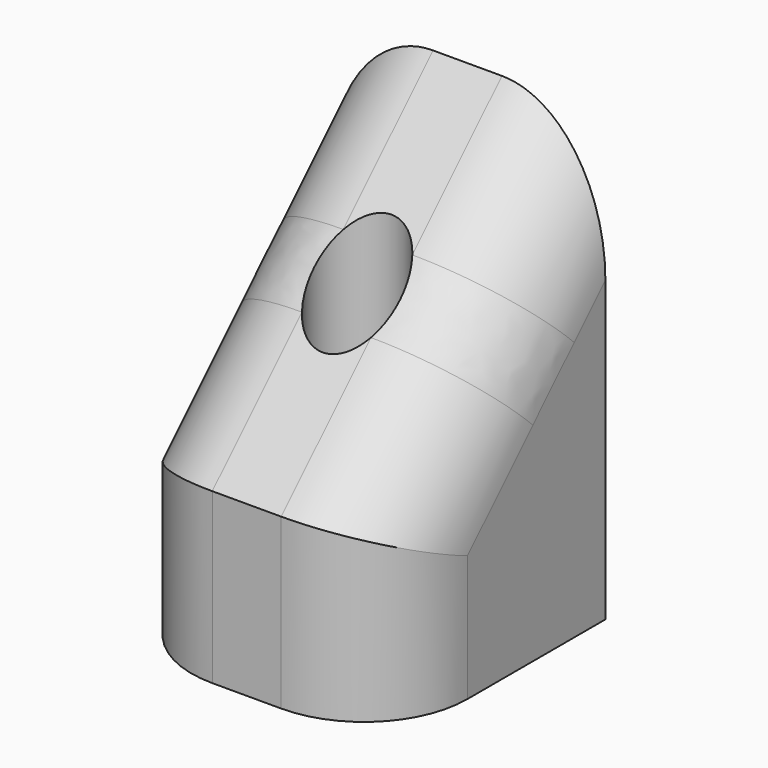
from build123d import *

# Parameters (mm, degrees)
PAD027_DEPTH    = 4
SKETCH057_R     = 1.25
POCKET019_DEPTH = 12.901
FILLET_R        = 3


with BuildPart() as part:
    # Sketch055 → Pad027 (new body, symmetric)
    with BuildSketch(Plane.YZ.offset(-96)):
        Polygon((101, 27.1), (93, 27.1), (93, 32), (101, 40), align=None)
    extrude(amount=PAD027_DEPTH, both=True)

    # Sketch057 (on Face1 of Pad027) → Pocket019 (cut, through all)
    with BuildSketch(Plane.YX.offset(-27.1)):
        with Locations((97, -96)):
            Circle(SKETCH057_R)
    extrude(amount=-POCKET019_DEPTH, mode=Mode.SUBTRACT)

    # Fillet
    fillet_edges = [part.edges().sort_by_distance(p)[0] for p in [
        (-100, 93, 29.55),
        (-100, 97, 36),
        (-92, 97, 36),
        (-92, 93, 29.55),
    ]]
    fillet(fillet_edges, radius=FILLET_R)


with BuildPart() as part_1:
    # Body039 placement: moved
    add(part.part.moved(Location((192, 0, 0))))


solid = part_1.part
